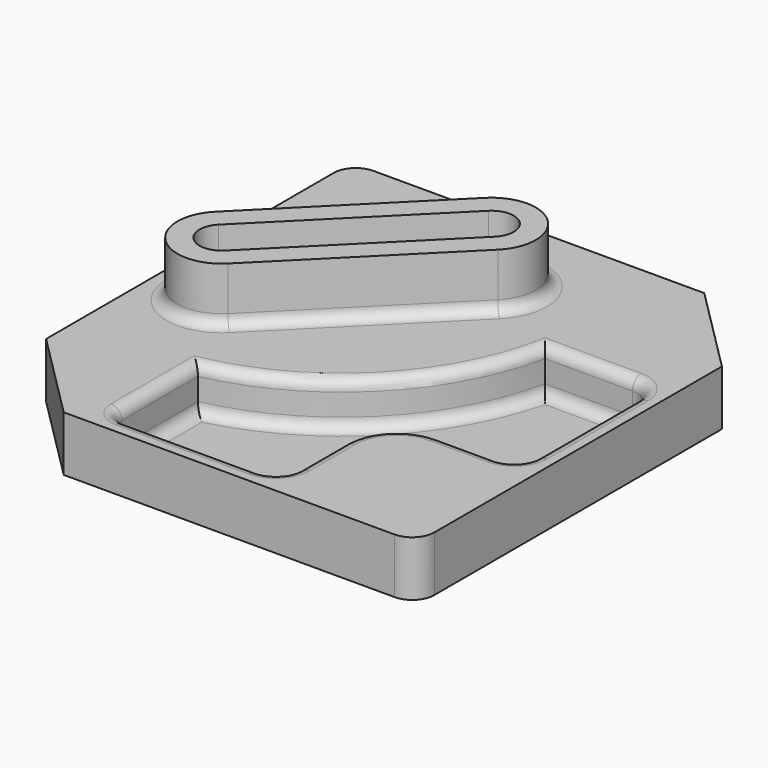
from build123d import *

# Parameters (mm, degrees)
F1_DEPTH = 25
F3_DEPTH = 20
F5_DEPTH = 25
F6_R     = 10
F7_R     = 5


with BuildPart() as f1:
    # F0 (on Top) → F1 (new body)
    with BuildSketch(Plane.XY):
        Polygon((-60, -106.5), (100, -106.5), (100, 66.5), (60, 106.5), (-100, 106.5), (-100, -66.5), align=None)
    extrude(amount=F1_DEPTH)

    # F2 (on face) → F3 (cut)
    with BuildSketch(Plane.XY.offset(25)):
        with BuildLine():
            ThreePointArc((31, -61.5), (38.029437, -44.529437), (55, -37.5))
            Line((55, -37.5), (81, -37.5))
            ThreePointArc((81, -37.5), (88.071068, -34.571068), (91, -27.5))
            Line((91, -27.5), (91, 29.5))
            ThreePointArc((91, 29.5), (88.071068, 36.571068), (81, 39.5))
            Line((81, 39.5), (41.445054, 39.5))
            ThreePointArc((41.445054, 39.5), (10.610173, -17.110173), (-46, -47.945054))
            Line((-46, -47.945054), (-46, -90.975486))
            ThreePointArc((-46, -90.975486), (-44.089014, -95.589014), (-39.475486, -97.5))
            Line((-39.475486, -97.5), (21, -97.5))
            ThreePointArc((21, -97.5), (28.071068, -94.571068), (31, -87.5))
            Line((31, -87.5), (31, -61.5))
        make_face()
    extrude(amount=-F3_DEPTH, mode=Mode.SUBTRACT)

    # F4 (on face) → F5 (join)
    with BuildSketch(Plane.XY.offset(25)):
        with BuildLine():
            Line((-16.142136, 77.642136), (-84.142136, 9.642136))
            ThreePointArc((-84.142136, 9.642136), (-84.142136, -18.642136), (-55.857864, -18.642136))
            Line((-55.857864, -18.642136), (12.142136, 49.357864))
            ThreePointArc((12.142136, 49.357864), (12.142136, 77.642136), (-16.142136, 77.642136))
        make_face()
        with BuildLine():
            ThreePointArc((-9.071068, 70.571068), (5.071068, 70.571068), (5.071068, 56.428932))
            Line((5.071068, 56.428932), (-62.928932, -11.571068))
            ThreePointArc((-62.928932, -11.571068), (-77.071068, -11.571068), (-77.071068, 2.571068))
            Line((-77.071068, 2.571068), (-9.071068, 70.571068))
        make_face(mode=Mode.SUBTRACT)
    extrude(amount=F5_DEPTH)

    # F6
    f6_edges = [f1.edges().sort_by_distance(p)[0] for p in [
        (100, -106.5, 12.5),
        (-100, 106.5, 12.5),
    ]]
    fillet(f6_edges, radius=F6_R)

    # F7
    f7_edges = [f1.edges().sort_by_distance(p)[0] for p in [
        (-21.857864, 15.357864, 25),
        (10.610173, -17.110173, 5),
        (61.222527, 39.5, 5),
        (61.222527, 39.5, 25),
        (10.610173, -17.110173, 25),
    ]]
    fillet(f7_edges, radius=F7_R)


solid = f1.part
